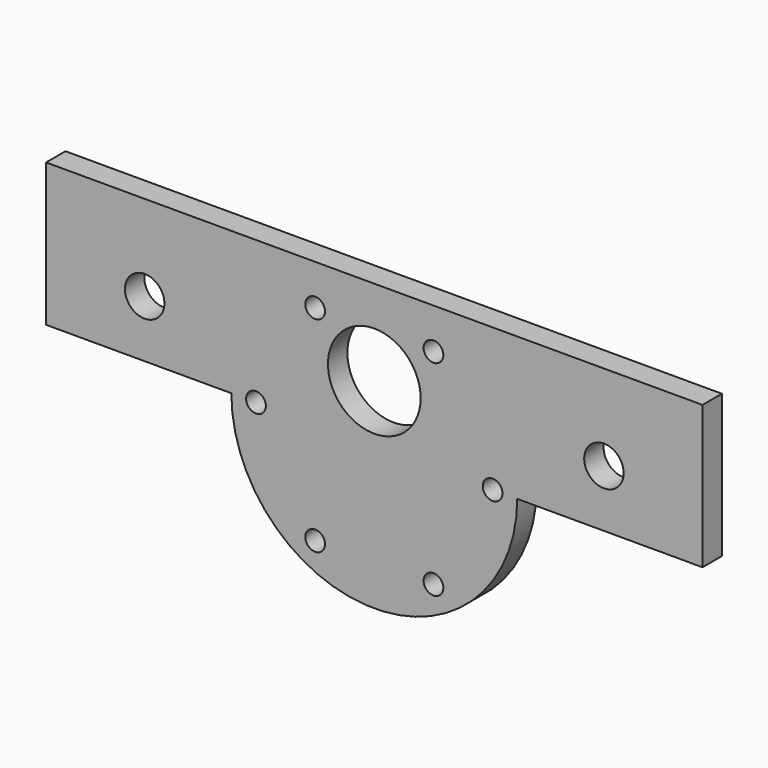
from build123d import *

# Parameters (mm, degrees)
F0_R     = 1.27
F0_R_2   = 5.969
F0_R_3   = 2.54
F1_DEPTH = 3.1242


with BuildPart() as f1:
    # F0 (on Front) → F1 (new body)
    with BuildSketch(Plane.XZ):
        with BuildLine():
            ThreePointArc((-18.415, 0), (0, -18.415), (18.415, 0))
            ThreePointArc((18.415, 0), (13.021371, 13.021371), (0, 18.415))
            ThreePointArc((0, 18.415), (-13.021371, 13.021371), (-18.415, 0))
        make_face()
        with Locations((-7.62, -13.198227)):
            Circle(F0_R, mode=Mode.SUBTRACT)
        with Locations((-15.24, 0)):
            Circle(F0_R, mode=Mode.SUBTRACT)
        with Locations((7.62, -13.198227)):
            Circle(F0_R, mode=Mode.SUBTRACT)
        with Locations((15.24, 0)):
            Circle(F0_R, mode=Mode.SUBTRACT)
        with Locations((-7.62, 13.198227)):
            Circle(F0_R, mode=Mode.SUBTRACT)
        with Locations((0, 7.366)):
            Circle(F0_R_2, mode=Mode.SUBTRACT)
        with Locations((7.62, 13.198227)):
            Circle(F0_R, mode=Mode.SUBTRACT)
        with BuildLine():
            ThreePointArc((-18.415, 0), (-13.021371, 13.021371), (0, 18.415))
            Line((0, 18.415), (-42.277626, 18.415))
            Line((-42.277626, 18.415), (-42.277626, 0))
            Line((-42.277626, 0), (-18.415, 0))
        make_face()
        with Locations((-29.577626, 7.366)):
            Circle(F0_R_3, mode=Mode.SUBTRACT)
        with BuildLine():
            ThreePointArc((0, 18.415), (13.021371, 13.021371), (18.415, 0))
            Line((18.415, 0), (42.277626, 0))
            Line((42.277626, 0), (42.277626, 18.415))
            Line((42.277626, 18.415), (0, 18.415))
        make_face()
        with Locations((29.577626, 7.366)):
            Circle(F0_R_3, mode=Mode.SUBTRACT)
    extrude(amount=F1_DEPTH)


solid = f1.part
